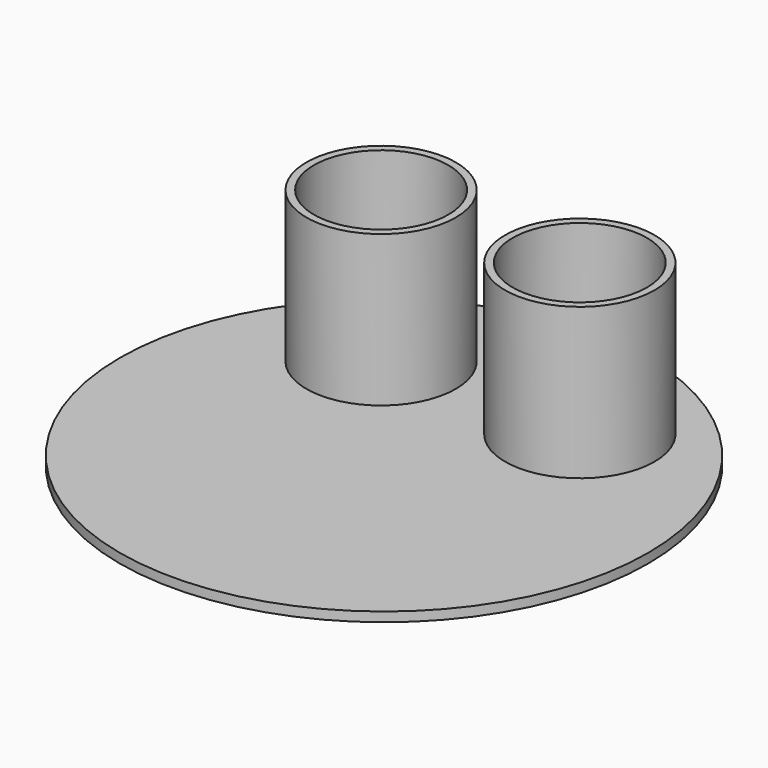
from build123d import *

# Parameters (mm, degrees)
F0_R     = 88.9
F1_DEPTH = 3.175
F2_R     = 25.146
F2_R_2   = 22.606
F3_DEPTH = 53.975
F4_DEPTH = 12.7
F5_DEPTH = 12.7


with BuildPart() as f1:
    # F0 (on Top) → F1 (new body)
    with BuildSketch(Plane.XY):
        Circle(F0_R)
    extrude(amount=F1_DEPTH)

    # F2 (on Top) → F3 (join)
    with BuildSketch(Plane.XY):
        with Locations((-34.0220481157, 41.3056388497)):
            Circle(F2_R)
        with Locations((-34.0220481157, 41.3056388497)):
            Circle(F2_R_2, mode=Mode.SUBTRACT)
        with Locations((32.6357856393, 41.5858998895)):
            Circle(F2_R)
        with Locations((32.6357856393, 41.5858998895)):
            Circle(F2_R_2, mode=Mode.SUBTRACT)
    extrude(amount=F3_DEPTH)

    # F4 (cut, symmetric): a face of the model
    f4_faces = [f1.faces().sort_by_distance(p)[0] for p in [
        (-34.0220481157, 41.3056388497, 3.175),
    ]]
    extrude(f4_faces, amount=F4_DEPTH, both=True, mode=Mode.SUBTRACT)

    # F5 (cut, symmetric): a face of the model
    f5_faces = [f1.faces().sort_by_distance(p)[0] for p in [
        (32.6357856393, 41.5858998895, 3.175),
    ]]
    extrude(f5_faces, amount=F5_DEPTH, both=True, mode=Mode.SUBTRACT)


solid = f1.part
